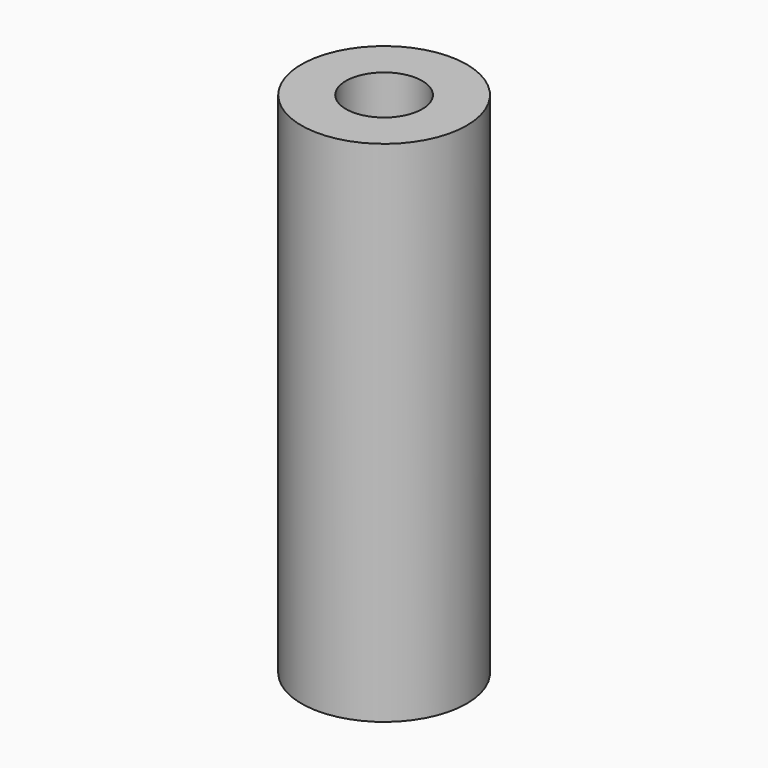
from build123d import *

# Parameters (mm, degrees)
F0_R     = 3.25
F0_R_2   = 1.5
F1_DEPTH = 15
F2_DEPTH = 20


with BuildPart() as f1:
    # F0 (on Top) → F1 (new body)
    with BuildSketch(Plane.XY):
        Circle(F0_R)
        Circle(F0_R_2, mode=Mode.SUBTRACT)
    extrude(amount=F1_DEPTH)


with BuildPart() as f2:
    # F0 (on Top) → F2 (new body)
    with BuildSketch(Plane.XY):
        Circle(F0_R)
        Circle(F0_R_2, mode=Mode.SUBTRACT)
    extrude(amount=F2_DEPTH)


solid = Compound([f1.part, f2.part])
